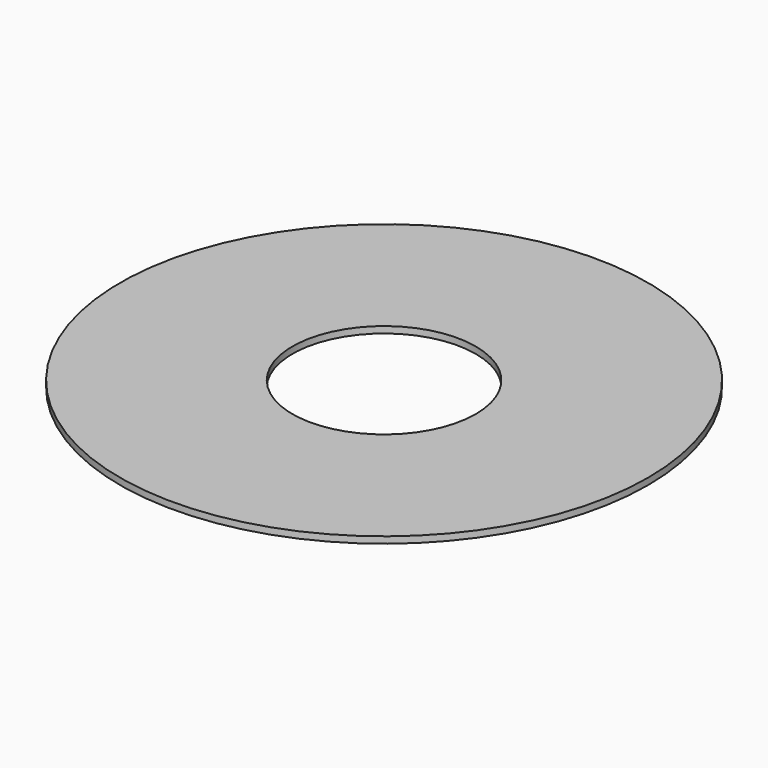
from build123d import *

# Parameters (mm, degrees)
F0_R     = 256.032
F0_R_2   = 117.475
F0_R_3   = 88.9
F1_DEPTH = 6.35


with BuildPart() as f1:
    # F0 (on Top) → F1 (new body)
    with BuildSketch(Plane.XY):
        Circle(F0_R)
        Circle(F0_R_2, mode=Mode.SUBTRACT)
        Circle(F0_R_2)
        Circle(F0_R_3, mode=Mode.SUBTRACT)
    extrude(amount=F1_DEPTH)


solid = f1.part
